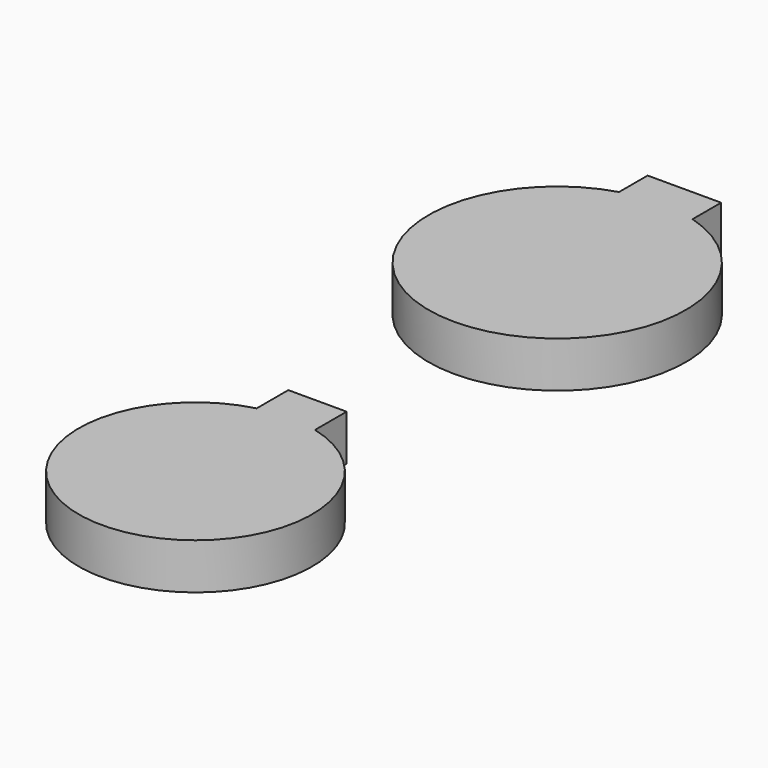
from build123d import *

# Parameters (mm, degrees)
F1_DEPTH = 5


with BuildPart() as f1:
    # F0 (on Top) → F1 (new body)
    with BuildSketch(Plane.XY):
        with BuildLine():
            Line((-4, 17.3), (-4, 13.416408))
            ThreePointArc((-4, 13.416408), (0, -14), (4, 13.416408))
            Line((4, 13.416408), (4, 17.3))
            Line((4, 17.3), (-4, 17.3))
        make_face()
        with BuildLine():
            Line((-3.175, -32.61774), (-3.175, -36.921018))
            ThreePointArc((-3.175, -36.921018), (0, -61.91774), (3.175, -36.921018))
            Line((3.175, -36.921018), (3.175, -32.61774))
            Line((3.175, -32.61774), (-3.175, -32.61774))
        make_face()
    extrude(amount=F1_DEPTH)


solid = f1.part
